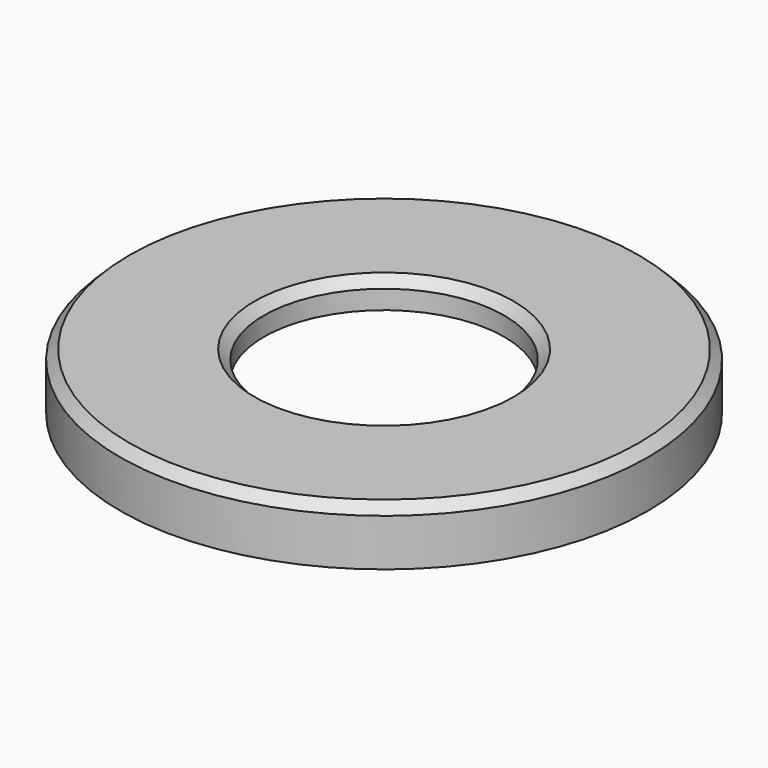
from build123d import *

# Parameters (mm, degrees)
F0_R     = 28
F0_R_2   = 23
F1_DEPTH = 6
F2_DEPTH = 3
F3_R     = 12.75
F4_DEPTH = 6.001
F5_SIZE  = 1


with BuildPart() as f1:
    # F0 (on Top) → F1 (new body)
    with BuildSketch(Plane.XY):
        Circle(F0_R)
        Circle(F0_R_2, mode=Mode.SUBTRACT)
        Circle(F0_R_2)
    extrude(amount=F1_DEPTH)

    # F0 (on Top) → F2 (cut)
    with BuildSketch(Plane.XY):
        Circle(F0_R_2)
    extrude(amount=F2_DEPTH, mode=Mode.SUBTRACT)

    # F3 (on face) → F4 (cut, through all)
    with BuildSketch(Plane.XY.offset(6)):
        Circle(F3_R)
    extrude(amount=-F4_DEPTH, mode=Mode.SUBTRACT)

    # F5
    f5_edges = [f1.edges().sort_by_distance(p)[0] for p in [
        (-12.75, 0, 6),
        (-28, 0, 6),
    ]]
    chamfer(f5_edges, length=F5_SIZE)


solid = f1.part
